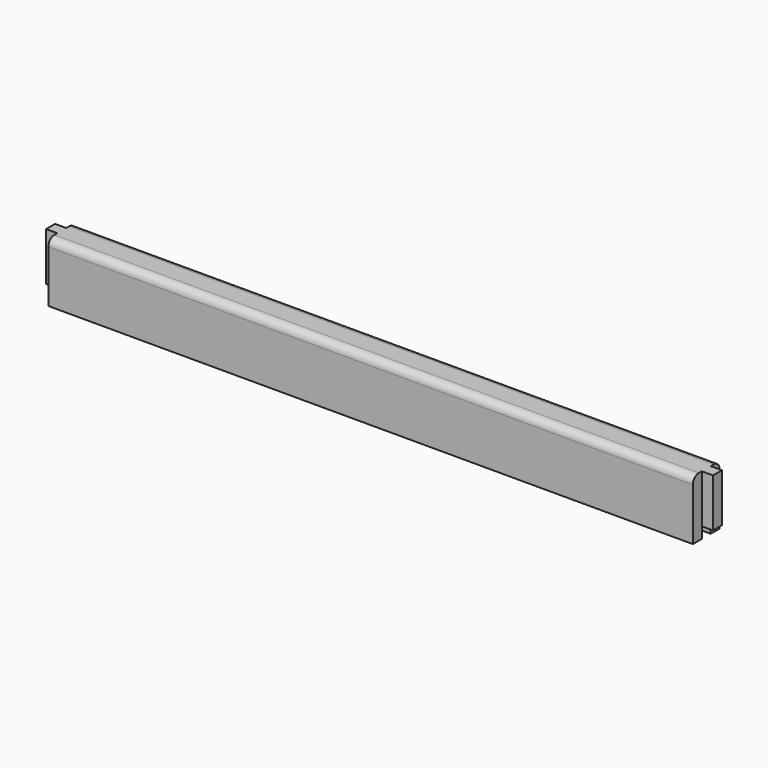
from build123d import *

# Parameters (mm, degrees)
F1_DEPTH = 568.325
F2_W     = 9.525
F2_H     = 9.525
F3_DEPTH = 50.8
F4_R     = 6.35


with BuildPart() as f1:
    # F0 (on Right) → F1 (new body)
    with BuildSketch(Plane.YZ):
        Polygon((0, 50.8), (0, 0), (9.525, 0), (9.525, 9.525), (19.05, 9.525), (19.05, 0), (28.575, 0), (28.575, 50.8), align=None)
    extrude(amount=F1_DEPTH)

    # F2 (on face) → F3 (cut)
    with BuildSketch(Plane.XY.offset(50.8)):
        with Locations((4.7625, 23.8125)):
            Rectangle(F2_W, F2_H)
        with Locations((4.7625, 4.7625)):
            Rectangle(F2_W, F2_H)
        with Locations((563.5625, 23.8125)):
            Rectangle(F2_W, F2_H)
        with Locations((563.5625, 4.7625)):
            Rectangle(F2_W, F2_H)
    extrude(amount=-F3_DEPTH, mode=Mode.SUBTRACT)

    # F4
    f4_edges = [f1.edges().sort_by_distance(p)[0] for p in [
        (284.1625, 0, 50.8),
        (284.1625, 28.575, 50.8),
    ]]
    fillet(f4_edges, radius=F4_R)


solid = f1.part
